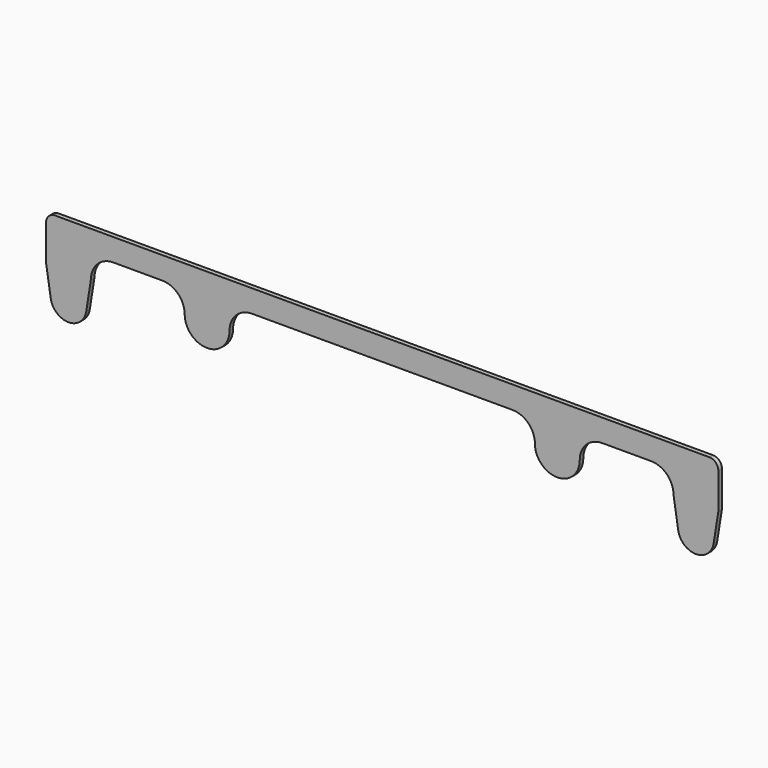
from build123d import *

# Parameters (mm, degrees)
F1_DEPTH = 1


with BuildPart() as f1:
    # F0 (on Front) → F1 (new body)
    with BuildSketch(Plane.XZ):
        with BuildLine():
            Line((29.8694758117, 20.3505297415), (-28.1305241883, 20.3505297415))
            ThreePointArc((-28.1305241883, 20.3505297415), (-29.5447377507, 19.7647433039), (-30.1305241883, 18.3505297415))
            Line((-30.1305241883, 18.3505297415), (-30.1305241883, 10.3505297415))
            Line((-30.1305241883, 10.3505297415), (-29.0812929486, 3.7248891079))
            ThreePointArc((-29.0812929486, 3.7248891079), (-25.1305241883, 0.3505297415), (-21.179755428, 3.7248891079))
            Line((-21.179755428, 3.7248891079), (-20.1305241883, 10.3505297415))
            ThreePointArc((-20.1305241883, 10.3505297415), (-18.6660580942, 13.8860636474), (-15.1305241883, 15.3505297415))
            Line((-15.1305241883, 15.3505297415), (-13.2839401439, 15.3505297415))
            Line((-13.2839401439, 15.3505297415), (-4.2025822867, 15.3505297415))
            ThreePointArc((-4.2025822867, 15.3505297415), (-0.6670483807, 13.8860636474), (0.7974177133, 10.3505297415))
            ThreePointArc((0.7974177133, 10.3505297415), (2.2618838074, 6.8149958356), (5.7974177133, 5.3505297415))
            ThreePointArc((5.7974177133, 5.3505297415), (9.3329516193, 6.8149958356), (10.7974177133, 10.3505297415))
            ThreePointArc((10.7974177133, 10.3505297415), (12.2618838074, 13.8860636474), (15.7974177133, 15.3505297415))
            Line((15.7974177133, 15.3505297415), (27.8694758117, 15.3505297415))
            Line((27.8694758117, 15.3505297415), (61.8694758117, 15.3505297415))
            Line((61.8694758117, 15.3505297415), (73.9415339101, 15.3505297415))
            ThreePointArc((73.9415339101, 15.3505297415), (77.477067816, 13.8860636474), (78.9415339101, 10.3505297415))
            ThreePointArc((78.9415339101, 10.3505297415), (80.4060000042, 6.8149958356), (83.9415339101, 5.3505297415))
            ThreePointArc((83.9415339101, 5.3505297415), (87.477067816, 6.8149958356), (88.9415339101, 10.3505297415))
            ThreePointArc((88.9415339101, 10.3505297415), (90.4060000042, 13.8860636474), (93.9415339101, 15.3505297415))
            Line((93.9415339101, 15.3505297415), (103.0228917673, 15.3505297415))
            Line((103.0228917673, 15.3505297415), (104.8694758117, 15.3505297415))
            ThreePointArc((104.8694758117, 15.3505297415), (108.4050097177, 13.8860636474), (109.8694758117, 10.3505297415))
            Line((109.8694758117, 10.3505297415), (110.9187070514, 3.7248891079))
            ThreePointArc((110.9187070514, 3.7248891079), (114.8694758117, 0.3505297415), (118.820244572, 3.7248891079))
            Line((118.820244572, 3.7248891079), (119.8694758117, 10.3505297415))
            Line((119.8694758117, 10.3505297415), (119.8694758117, 18.3505297415))
            ThreePointArc((119.8694758117, 18.3505297415), (119.2836893741, 19.7647433039), (117.8694758117, 20.3505297415))
            Line((117.8694758117, 20.3505297415), (59.8694758117, 20.3505297415))
            Line((59.8694758117, 20.3505297415), (29.8694758117, 20.3505297415))
        make_face()
    extrude(amount=F1_DEPTH)


solid = f1.part
